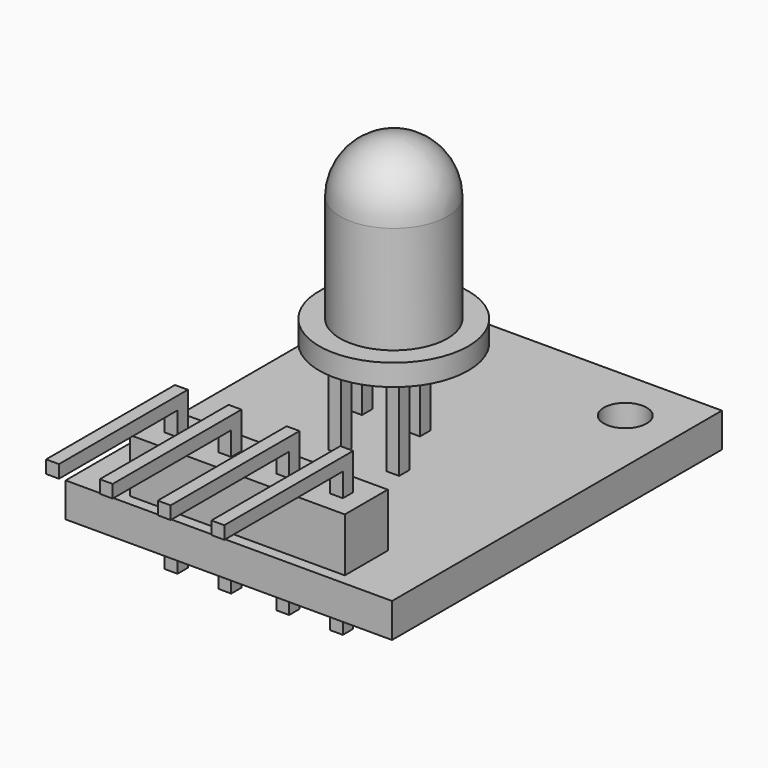
from build123d import *

# Parameters (mm, degrees)
F0_W      = 15.2
F0_H      = 19.2
F1_DEPTH  = 1.6
F2_R      = 1
F3_DEPTH  = 25
F4_W      = 10
F4_H      = 2.5
F5_DEPTH  = 2.5
F7_W      = 0.6
F7_H      = 0.6
F8_DEPTH  = 7.3
F9_W      = 0.6
F9_H      = 0.6
F10_DEPTH = 7.5
F11_R     = 3.473111
F12_DEPTH = 1
F13_R     = 2.5
F14_DEPTH = 7.5
F15_R     = 2.5


with BuildPart() as f1:
    # F0 (on Top) → F1 (new body)
    with BuildSketch(Plane.XY):
        Rectangle(F0_W, F0_H)
    extrude(amount=F1_DEPTH)

    # F2 (on face) → F3 (cut)
    with BuildSketch(Plane.XY.offset(1.6)):
        with Locations((-5.1, 7.1)):
            Circle(F2_R)
        with Locations((5.1, 7.1)):
            Circle(F2_R)
    extrude(amount=-F3_DEPTH, mode=Mode.SUBTRACT)

    # F4 (on face) → F5 (join)
    with BuildSketch(Plane.XY.offset(1.6)):
        with Locations((0, -7.85)):
            Rectangle(F4_W, F4_H)
    extrude(amount=F5_DEPTH)

    # F7 (on offset) → F8 (join)
    with BuildSketch(Plane.XY.offset(-1.5)):
        with Locations((3.85, -7.85)):
            Rectangle(F7_W, F7_H)
        with Locations((-3.85, -7.85)):
            Rectangle(F7_W, F7_H)
        with Locations((-1.35, -7.85)):
            Rectangle(F7_W, F7_H)
        with Locations((1.35, -7.85)):
            Rectangle(F7_W, F7_H)
        with Locations((1.35, -1.45)):
            Rectangle(F7_W, F7_H)
        with Locations((-1.35, -1.45)):
            Rectangle(F7_W, F7_H)
        with Locations((0, 1.45)):
            Rectangle(F7_W, F7_H)
        with Locations((-2.7, 1.45)):
            Rectangle(F7_W, F7_H)
    extrude(amount=F8_DEPTH)

    # F9 (on face) → F10 (join)
    with BuildSketch(Plane(origin=(0, -7.55, 0), x_dir=(-1, 0, 0), z_dir=(0, 1, 0))):
        with Locations((3.85, 5.5)):
            Rectangle(F9_W, F9_H)
        with Locations((-3.85, 5.5)):
            Rectangle(F9_W, F9_H)
        with Locations((1.35, 5.5)):
            Rectangle(F9_W, F9_H)
        with Locations((-1.35, 5.5)):
            Rectangle(F9_W, F9_H)
    extrude(amount=-F10_DEPTH)

    # F11 (on face) → F12 (join)
    with BuildSketch(Plane.XY.offset(5.8)):
        Circle(F11_R)
    extrude(amount=F12_DEPTH)

    # F13 (on face) → F14 (join)
    with BuildSketch(Plane.XY.offset(6.8)):
        Circle(F13_R)
    extrude(amount=F14_DEPTH)

    # F15
    f15_edges = [f1.edges().sort_by_distance(p)[0] for p in [
        (-2.5, 0, 14.3),
    ]]
    fillet(f15_edges, radius=F15_R)


solid = f1.part
